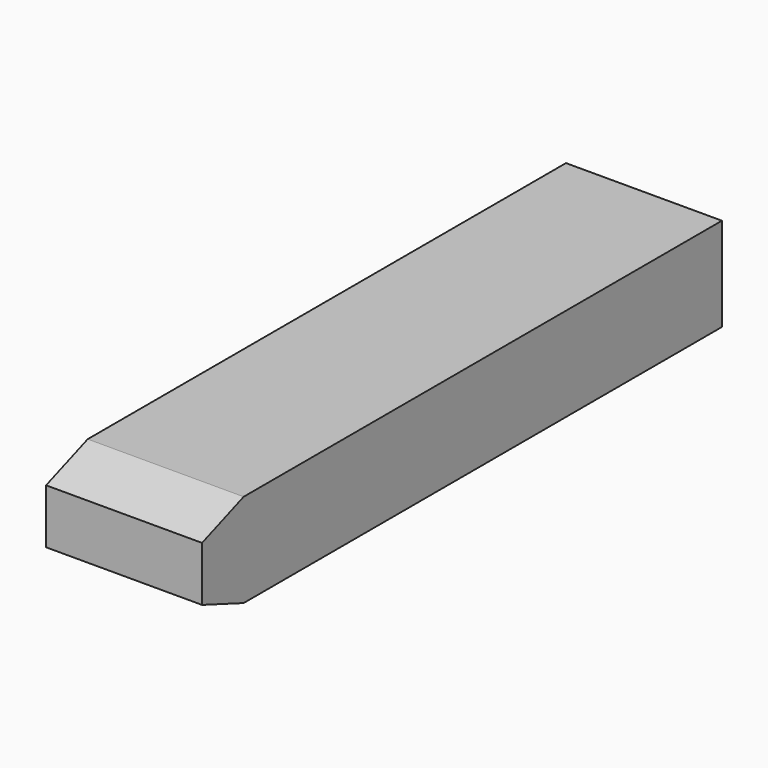
from build123d import *

# Parameters (mm, degrees)
F0_W     = 6
F0_H     = 3.6
F1_DEPTH = 25
F2_SIZE2 = 0.75
F2_SIZE  = 2


with BuildPart() as f1:
    # F0 (on Front) → F1 (new body)
    with BuildSketch(Plane.XZ):
        with Locations((-1.260776, -2.620722)):
            Rectangle(F0_W, F0_H)
    extrude(amount=F1_DEPTH)

    # F2
    f2_edges = [f1.edges().sort_by_distance(p)[0] for p in [
        (-1.260776, -25, -0.820722),
        (-1.260776, -25, -4.420722),
    ]]
    chamfer(f2_edges, length=F2_SIZE, length2=F2_SIZE2)


solid = f1.part
